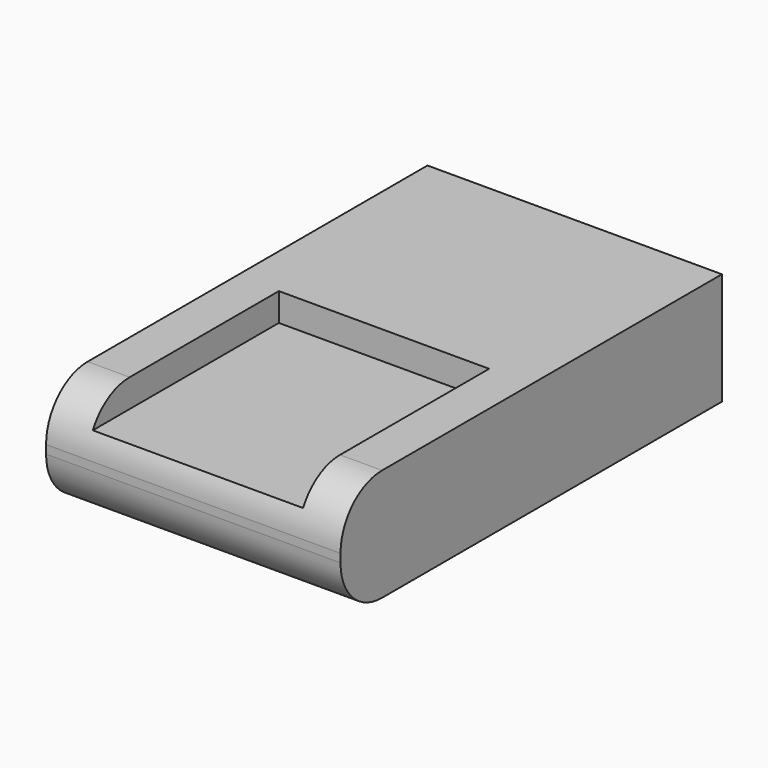
from build123d import *

# Parameters (mm, degrees)
F0_W     = 170
F0_H     = 3
F1_DEPTH = 52.5
F2_W     = 85
F2_H     = 10
F3_DEPTH = 37.5


with BuildPart() as f1:
    # F0 (on Right) → F1 (new body, symmetric)
    with BuildSketch(Plane.YZ):
        with BuildLine():
            ThreePointArc((-66.5, 20), (-79.581475, 14.581475), (-85, 1.5))
            Line((-85, 1.5), (85, 1.5))
            Line((85, 1.5), (85, 20))
            Line((85, 20), (-66.5, 20))
        make_face()
        Rectangle(F0_W, F0_H)
        with BuildLine():
            Line((85, -1.5), (-85, -1.5))
            ThreePointArc((-85, -1.5), (-79.581475, -14.581475), (-66.5, -20))
            Line((-66.5, -20), (85, -20))
            Line((85, -20), (85, -1.5))
        make_face()
    extrude(amount=F1_DEPTH, both=True)

    # F2 (on Right) → F3 (cut, symmetric)
    with BuildSketch(Plane.YZ):
        with Locations((-42.5, 15)):
            Rectangle(F2_W, F2_H)
    extrude(amount=F3_DEPTH, both=True, mode=Mode.SUBTRACT)


solid = f1.part
